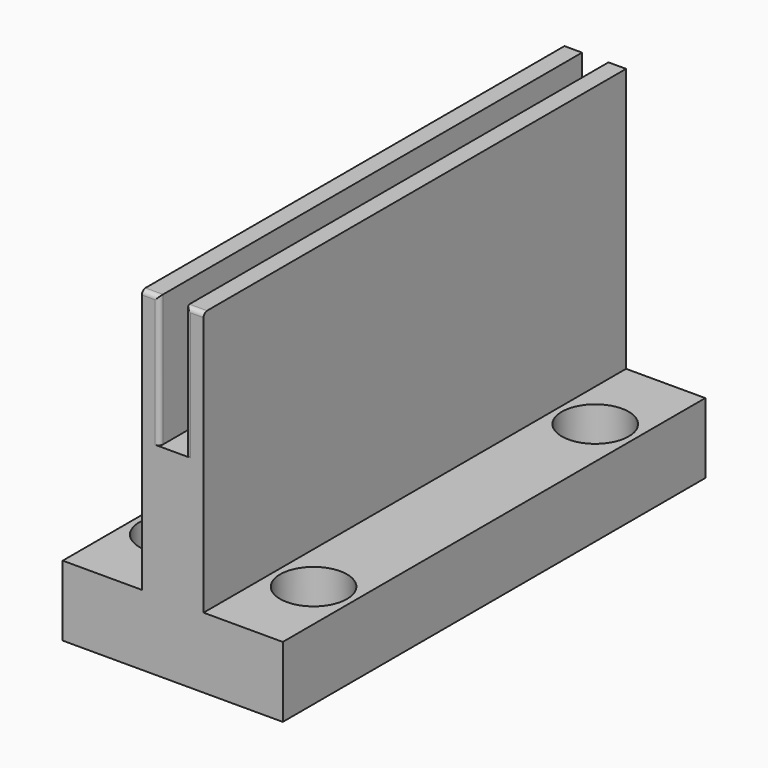
from build123d import *

# Parameters (mm, degrees)
F1_DEPTH       = 60
F3_D           = 4.5
F3_CBORE_D     = 7.6
F3_CBORE_DEPTH = 4.3
F4_R           = 0.5


with BuildPart() as f1:
    # F0 (on Front) → F1 (new body)
    with BuildSketch(Plane.XZ):
        Polygon((0, -5.126866), (0, 17.873134), (-1.5, 17.873134), (-1.5, 32.873134), (-3.5, 32.873134), (-3.5, 2.873134), (-12.5, 2.873134), (-12.5, -5.126866), align=None)
        Polygon((1.5, 17.873134), (0, 17.873134), (0, -5.126866), (12.5, -5.126866), (12.5, 2.873134), (3.5, 2.873134), (3.5, 32.873134), (1.5, 32.873134), align=None)
    extrude(amount=F1_DEPTH)

    # F3 (through all)
    with Locations(Plane.XY.offset(2.873134)):
        with Locations((-8, -50), (-8, -10), (8, -50), (8, -10)):
            CounterBoreHole(F3_D / 2, F3_CBORE_D / 2, F3_CBORE_DEPTH)

    # F4
    f4_edges = [f1.edges().sort_by_distance(p)[0] for p in [
        (-1.5, -60, 25.373134),
        (1.5, -60, 25.373134),
        (2.5, -60, 32.873134),
        (-2.5, -60, 32.873134),
    ]]
    fillet(f4_edges, radius=F4_R)


solid = f1.part
